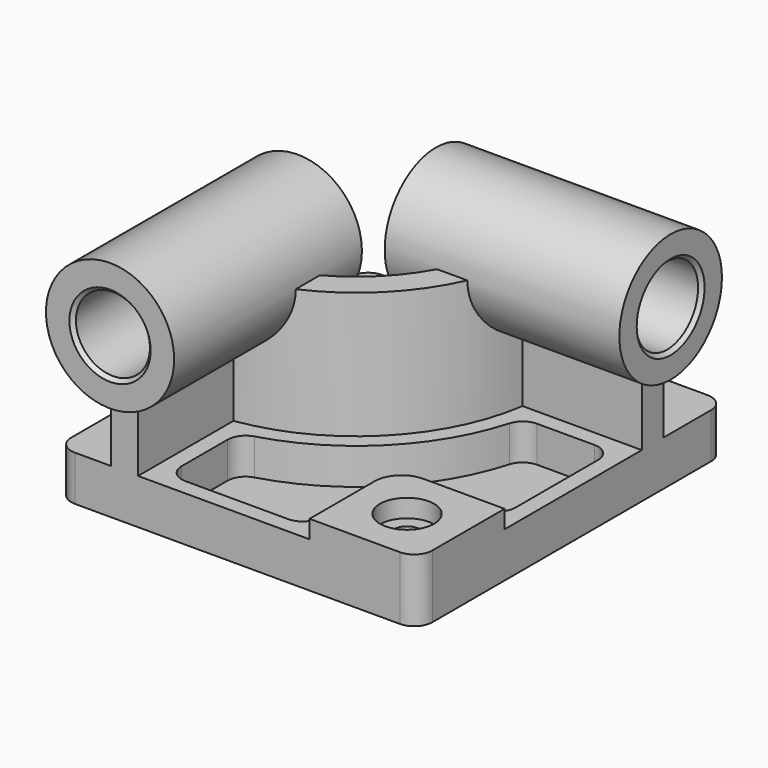
from build123d import *

# Parameters (mm, degrees)
F1_DEPTH  = 25
F3_DEPTH  = 95
F6_R      = 35.5
F7_DEPTH  = 130
F8_R      = 35.5
F9_DEPTH  = 130
F15_DEPTH = 35
F21_DEPTH = 20


with BuildPart() as f1:
    # F0 (on Top) → F1 (new body)
    with BuildSketch(Plane.XY):
        with BuildLine():
            ThreePointArc((0, -10), (-2.9289321881, -2.9289321881), (-10, 0))
            Line((-10, 0), (-190, 0))
            ThreePointArc((-190, 0), (-197.0710678119, -2.9289321881), (-200, -10))
            Line((-200, -10), (-200, -203))
            ThreePointArc((-200, -203), (-197.0710678119, -210.0710678119), (-190, -213))
            Line((-190, -213), (-10, -213))
            ThreePointArc((-10, -213), (-2.9289321881, -210.0710678119), (0, -203))
            Line((0, -203), (0, -10))
        make_face()
    extrude(amount=F1_DEPTH)

    # F2 (on Top) → F3 (join)
    with BuildSketch(Plane.XY):
        with BuildLine():
            Line((-170, -133), (-170, -213))
            Line((-170, -213), (-155, -213))
            Line((-155, -213), (-155, -146.9230484541))
            ThreePointArc((-155, -146.9230484541), (-95.7537879754, -117.2462120246), (-66.0769515459, -58))
            Line((-66.0769515459, -58), (0, -58))
            Line((0, -58), (0, -43))
            Line((0, -43), (-80, -43))
            ThreePointArc((-80, -43), (-106.3603896932, -106.6396103068), (-170, -133))
        make_face()
    extrude(amount=F3_DEPTH)

    # F6 (on offset) → F7 (join)
    with BuildSketch(Plane.XZ.offset(223)):
        with Locations((-162.5, 95)):
            Circle(F6_R)
    extrude(amount=-F7_DEPTH)

    # F8 (on offset) → F9 (join)
    with BuildSketch(Plane.YZ.offset(10)):
        with Locations((-50.5, 95)):
            Circle(F8_R)
    extrude(amount=-F9_DEPTH)

    # F10 (on face) → F11 (revolve, cut)
    with BuildSketch(Plane.XY.offset(95)):
        Polygon((-185, -223), (-162.5, -223), (-162.5, -93), (-185, -93), (-183, -95), (-183, -221), align=None)
    revolve(axis=Axis((-162.5, -243.6612894535, 95), (0, -1, 0)), mode=Mode.SUBTRACT)

    # F12 (on face) → F13 (revolve, cut)
    with BuildSketch(Plane.XY.offset(95)):
        Polygon((10, -50.5), (-120, -50.5), (-120, -74), (-118, -72), (8, -72), (10, -74), align=None)
    revolve(axis=Axis((19.2261292785, -50.5, 95), (1, 0, 0)), mode=Mode.SUBTRACT)

    # F14 (on Top) → F15 (join)
    with BuildSketch(Plane.XY):
        with BuildLine():
            Line((-60, -213), (-10, -213))
            ThreePointArc((-10, -213), (-2.9289321881, -210.0710678119), (0, -203))
            Line((0, -203), (0, -153))
            Line((0, -153), (-45, -153))
            ThreePointArc((-45, -153), (-55.6066017178, -157.3933982822), (-60, -168))
            Line((-60, -168), (-60, -213))
        make_face()
    extrude(amount=F15_DEPTH)

    # F17 (on offset) → F18 (revolve, cut)
    with BuildSketch(Plane.YZ.offset(-30)):
        Polygon((-168, 79.0162310004), (-183, 79.0162310004), (-183, -100.5072366447), (-175.56, -100.5072366447), (-175.56, 25), (-168, 25), align=None)
    revolve(axis=Axis((-30, -183, -109.5705961809), (0, 0, -1)), mode=Mode.SUBTRACT)

    # F20 (on offset) → F21 (cut, through all)
    with BuildSketch(Plane.XY.offset(5)):
        with BuildLine():
            ThreePointArc((-50.7523585139, -67), (-56.7765034807, -69.018165786), (-60.369103795, -74.2580645161))
            ThreePointArc((-60.369103795, -74.2580645161), (-89.3898269447, -123.6101730553), (-138.7419354839, -152.630896205))
            ThreePointArc((-138.7419354839, -152.630896205), (-143.981834214, -156.2234965193), (-146, -162.2476414861))
            Line((-146, -162.2476414861), (-146, -194))
            ThreePointArc((-146, -194), (-143.0710678119, -201.0710678119), (-136, -204))
            Line((-136, -204), (-79, -204))
            ThreePointArc((-79, -204), (-71.9289321881, -201.0710678119), (-69, -194))
            Line((-69, -194), (-69, -168))
            ThreePointArc((-69, -168), (-61.9705627485, -151.0294372515), (-45, -144))
            Line((-45, -144), (-19, -144))
            ThreePointArc((-19, -144), (-11.9289321881, -141.0710678119), (-9, -134))
            Line((-9, -134), (-9, -77))
            ThreePointArc((-9, -77), (-11.9289321881, -69.9289321881), (-19, -67))
            Line((-19, -67), (-50.7523585139, -67))
        make_face()
    extrude(amount=F21_DEPTH, mode=Mode.SUBTRACT)


solid = f1.part
